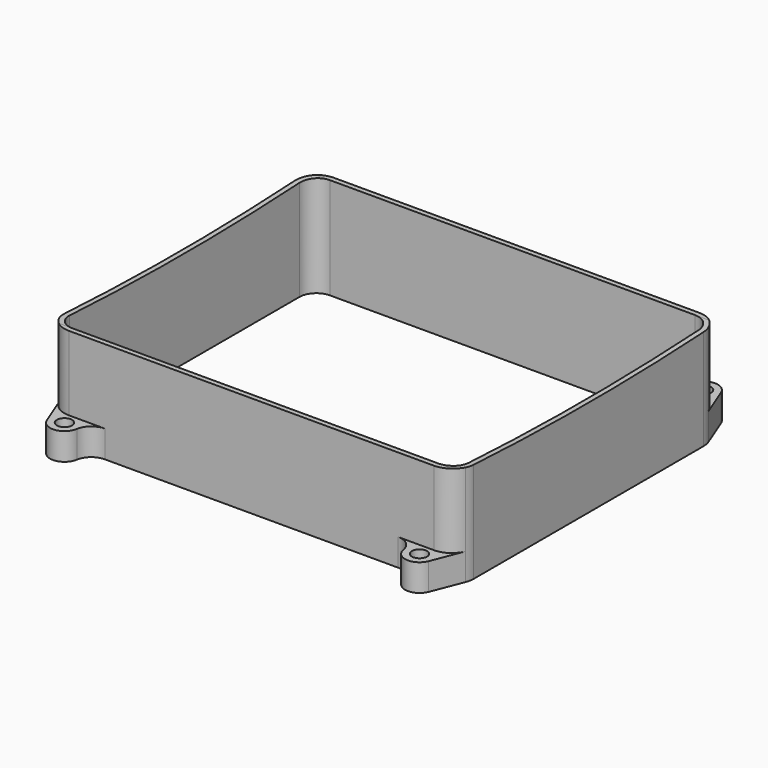
from build123d import *

# Parameters (mm, degrees)
F1_DEPTH = 30
F0_R     = 2.25
F2_DEPTH = 8
F3_R     = 800
F4_DEPTH = 121.001


with BuildPart() as f1:
    # F0 (on Top) → F1 (new body)
    with BuildSketch(Plane.XY):
        with BuildLine():
            ThreePointArc((60.0523881171, -44.8703582176), (60.3871168285, -43.7061254575), (60.5, -42.5))
            Line((60.5, -42.5), (60.5, 42.5))
            ThreePointArc((60.5, 42.5), (60.3871168285, 43.7061254575), (60.0523881171, 44.8703582176))
            ThreePointArc((60.0523881171, 44.8703582176), (57.6635141317, 47.8692331116), (54, 49))
            Line((54, 49), (43.3724318682, 49))
            Line((43.3724318682, 49), (-43.3724318682, 49))
            Line((-43.3724318682, 49), (-54, 49))
            ThreePointArc((-54, 49), (-57.6635141317, 47.8692331116), (-60.0523881171, 44.8703582176))
            ThreePointArc((-60.0523881171, 44.8703582176), (-60.3871168285, 43.7061254575), (-60.5, 42.5))
            Line((-60.5, 42.5), (-60.5, -42.5))
            ThreePointArc((-60.5, -42.5), (-60.3871168285, -43.7061254575), (-60.0523881171, -44.8703582176))
            ThreePointArc((-60.0523881171, -44.8703582176), (-57.6635141317, -47.8692331116), (-54, -49))
            Line((-54, -49), (-43.3724318682, -49))
            Line((-43.3724318682, -49), (43.3724318682, -49))
            Line((43.3724318682, -49), (54, -49))
            ThreePointArc((54, -49), (57.6635141317, -47.8692331116), (60.0523881171, -44.8703582176))
        make_face()
        with BuildLine():
            Line((-54, 47.5), (54, 47.5))
            ThreePointArc((54, 47.5), (57.5355339059, 46.0355339059), (59, 42.5))
            Line((59, 42.5), (59, -42.5))
            ThreePointArc((59, -42.5), (57.5355339059, -46.0355339059), (54, -47.5))
            Line((54, -47.5), (-54, -47.5))
            ThreePointArc((-54, -47.5), (-57.5355339059, -46.0355339059), (-59, -42.5))
            Line((-59, -42.5), (-59, 42.5))
            ThreePointArc((-59, 42.5), (-57.5355339059, 46.0355339059), (-54, 47.5))
        make_face(mode=Mode.SUBTRACT)
    extrude(amount=F1_DEPTH)

    # F0 (on Top) → F2 (join)
    with BuildSketch(Plane.XY):
        with BuildLine():
            Line((-54, 49), (-43.3724318682, 49))
            ThreePointArc((-43.3724318682, 49), (-46.6086291695, 50.1885662767), (-48.30625248, 53.1891891892))
            ThreePointArc((-48.30625248, 53.1891891892), (-52.0537295479, 56.7265047833), (-56.457330692, 54.0498496038))
            Line((-56.457330692, 54.0498496038), (-60.0523881171, 44.8703582176))
            ThreePointArc((-60.0523881171, 44.8703582176), (-57.6635141317, 47.8692331116), (-54, 49))
        make_face()
        with Locations((-52.5, 52.5)):
            Circle(F0_R, mode=Mode.SUBTRACT)
        with BuildLine():
            ThreePointArc((-48.30625248, -53.1891891892), (-46.6086291695, -50.1885662767), (-43.3724318682, -49))
            Line((-43.3724318682, -49), (-54, -49))
            ThreePointArc((-54, -49), (-57.6635141317, -47.8692331116), (-60.0523881171, -44.8703582176))
            Line((-60.0523881171, -44.8703582176), (-56.457330692, -54.0498496038))
            ThreePointArc((-56.457330692, -54.0498496038), (-52.0537295479, -56.7265047833), (-48.30625248, -53.1891891892))
        make_face()
        with Locations((-52.5, -52.5)):
            Circle(F0_R, mode=Mode.SUBTRACT)
        with BuildLine():
            Line((56.457330692, -54.0498496038), (60.0523881171, -44.8703582176))
            ThreePointArc((60.0523881171, -44.8703582176), (57.6635141317, -47.8692331116), (54, -49))
            Line((54, -49), (43.3724318682, -49))
            ThreePointArc((43.3724318682, -49), (46.6086291695, -50.1885662767), (48.30625248, -53.1891891892))
            ThreePointArc((48.30625248, -53.1891891892), (52.0537295479, -56.7265047833), (56.457330692, -54.0498496038))
        make_face()
        with Locations((52.5, -52.5)):
            Circle(F0_R, mode=Mode.SUBTRACT)
        with BuildLine():
            ThreePointArc((54, 49), (57.6635141317, 47.8692331116), (60.0523881171, 44.8703582176))
            Line((60.0523881171, 44.8703582176), (56.457330692, 54.0498496038))
            ThreePointArc((56.457330692, 54.0498496038), (52.0537295479, 56.7265047833), (48.30625248, 53.1891891892))
            ThreePointArc((48.30625248, 53.1891891892), (46.6086291695, 50.1885662767), (43.3724318682, 49))
            Line((43.3724318682, 49), (54, 49))
        make_face()
        with Locations((52.5, 52.5)):
            Circle(F0_R, mode=Mode.SUBTRACT)
    extrude(amount=F2_DEPTH)

    # F3 (on face) → F4 (cut, through all)
    with BuildSketch(Plane(origin=(-60.5, 0, 0), x_dir=(0, -1, 0), z_dir=(-1, 0, 0))):
        with Locations((0, 828.5885987165)):
            Circle(F3_R)
    extrude(amount=-F4_DEPTH, mode=Mode.SUBTRACT)


solid = f1.part
